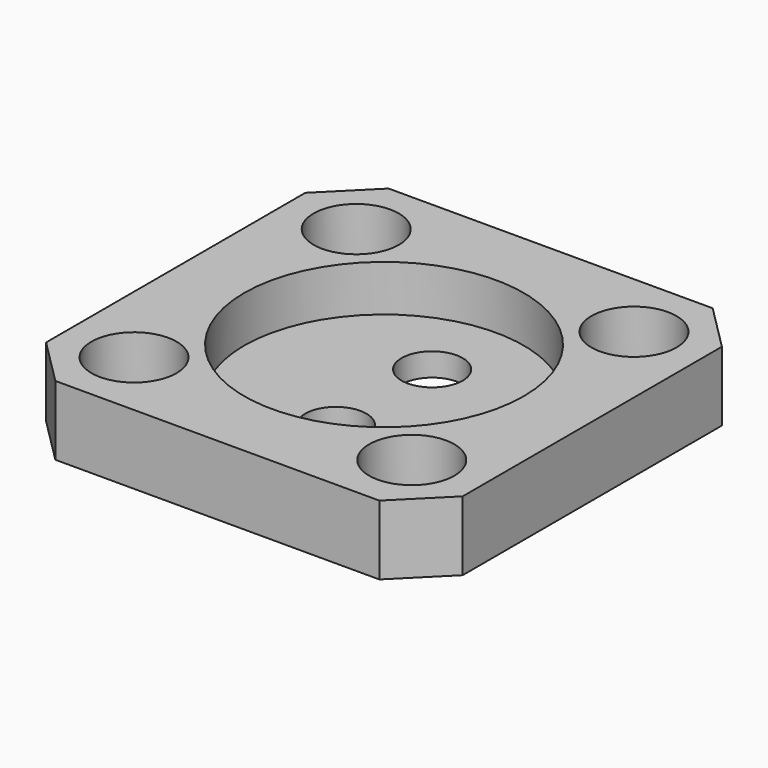
from build123d import *

# Parameters (mm, degrees)
F0_W     = 57.15
F0_H     = 57.15
F1_DEPTH = 9.525
F2_R     = 19.177
F3_DEPTH = 6.35
F4_R     = 2.413
F5_DEPTH = 9.526
F7_R     = 4.191
F8_DEPTH = 9.526
F6_R     = 5.842
F9_DEPTH = 6.35
F10_SIZE = 6.35


with BuildPart() as f1:
    # F0 (on Top) → F1 (new body)
    with BuildSketch(Plane.XY):
        Rectangle(F0_W, F0_H)
    extrude(amount=F1_DEPTH)

    # F2 (on face) → F3 (cut)
    with BuildSketch(Plane.XY.offset(9.525)):
        Circle(F2_R)
    extrude(amount=-F3_DEPTH, mode=Mode.SUBTRACT)

    # F4 (on Top) → F5 (cut, through all)
    with BuildSketch(Plane.XY):
        with Locations((-19.05, 19.050001)):
            Circle(F4_R)
        with Locations((19.05, 19.050001)):
            Circle(F4_R)
        with Locations((-19.05, -19.050001)):
            Circle(F4_R)
        with Locations((19.05, -19.050001)):
            Circle(F4_R)
    extrude(amount=F5_DEPTH, mode=Mode.SUBTRACT)

    # F7 (on Top) → F8 (cut, through all)
    with BuildSketch(Plane.XY):
        with Locations((0, 8.255)):
            Circle(F7_R)
        with Locations((0, -8.255)):
            Circle(F7_R)
    extrude(amount=F8_DEPTH, mode=Mode.SUBTRACT)

    # F6 (on face) → F9 (cut)
    with BuildSketch(Plane.XY.offset(9.525)):
        with Locations((-19.05, 19.050001)):
            Circle(F6_R)
        with Locations((19.05, 19.050001)):
            Circle(F6_R)
        with Locations((-19.05, -19.050001)):
            Circle(F6_R)
        with Locations((19.05, -19.050001)):
            Circle(F6_R)
    extrude(amount=-F9_DEPTH, mode=Mode.SUBTRACT)

    # F10
    f10_edges = [f1.edges().sort_by_distance(p)[0] for p in [
        (-28.575, -28.575, 4.7625),
        (28.575, -28.575, 4.7625),
        (28.575, 28.575, 4.7625),
        (-28.575, 28.575, 4.7625),
    ]]
    chamfer(f10_edges, length=F10_SIZE)


solid = f1.part
